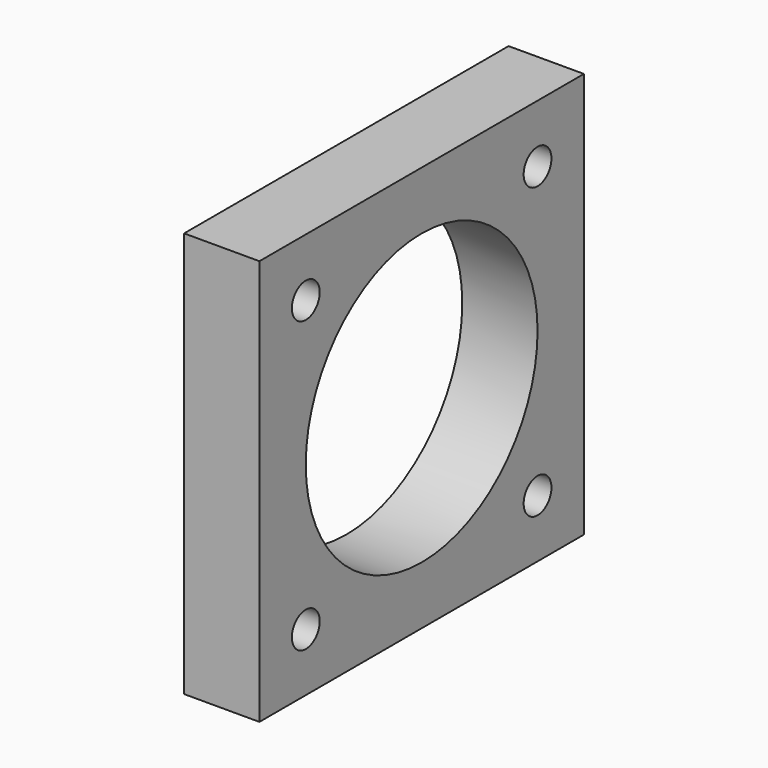
from build123d import *

# Parameters (mm, degrees)
SKETCH_W    = 35
SKETCH_H    = 35
SKETCH_R    = 12.5
PAD_DEPTH   = 3.25
SKETCH001_R = 1.5
HOLE_DEPTH  = 25


with BuildPart() as part:
    # Sketch → Pad (new body, symmetric)
    with BuildSketch(Plane.YZ):
        with Locations((17.5, 17.5)):
            Rectangle(SKETCH_W, SKETCH_H)
        with Locations((17.5, 17.5)):
            Circle(SKETCH_R, mode=Mode.SUBTRACT)
    extrude(amount=PAD_DEPTH, both=True)

    # Sketch001 (on Face6 of Pad) → Hole (cut)
    with BuildSketch(Plane(origin=(-3.25, 0, 0), x_dir=(0, 1, 0), z_dir=(-1, 0, 0))):
        with Locations((30, -30)):
            Circle(SKETCH001_R)
        with Locations((5, -5)):
            Circle(SKETCH001_R)
        with Locations((30, -5)):
            Circle(SKETCH001_R)
        with Locations((5, -30)):
            Circle(SKETCH001_R)
    extrude(amount=-HOLE_DEPTH, mode=Mode.SUBTRACT)


solid = part.part
